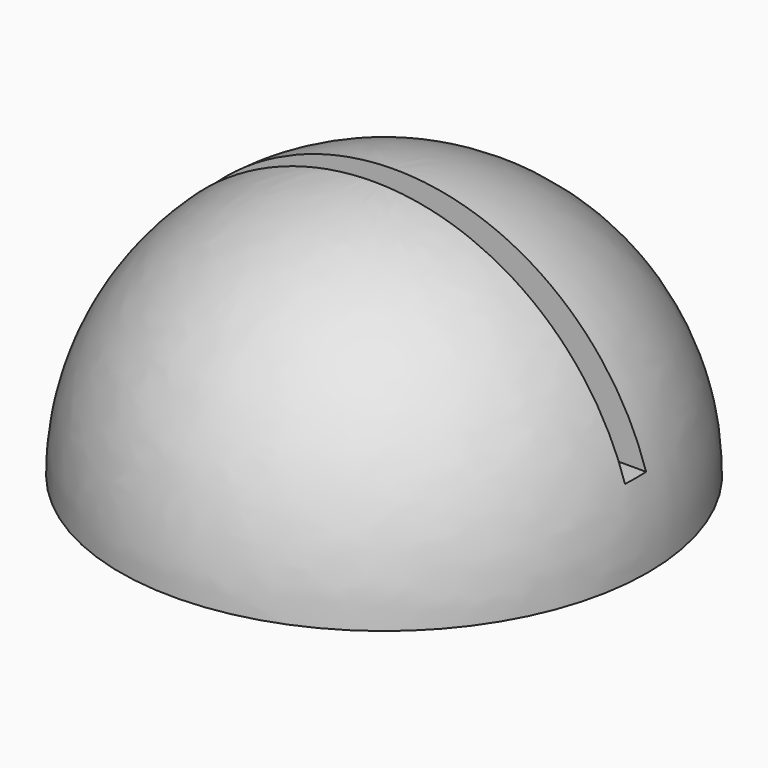
from build123d import *

# Parameters (mm, degrees)
F3_W     = 25
F3_H     = 1
F4_DEPTH = 12


with BuildPart() as f1:
    # F0 (on Front) → F1 (revolve)
    with BuildSketch(Plane.XZ):
        with BuildLine():
            Line((0, 0), (10, 0))
            ThreePointArc((10, 0), (7.071068, 7.071068), (0, 10))
            Line((0, 10), (0, 0))
        make_face()
    revolve(axis=Axis((0, 0, 5), (0, 0, 1)))

    # F3 (on offset) → F4 (cut)
    with BuildSketch(Plane.XY.offset(15)):
        Rectangle(F3_W, F3_H)
    extrude(amount=-F4_DEPTH, mode=Mode.SUBTRACT)


solid = f1.part
